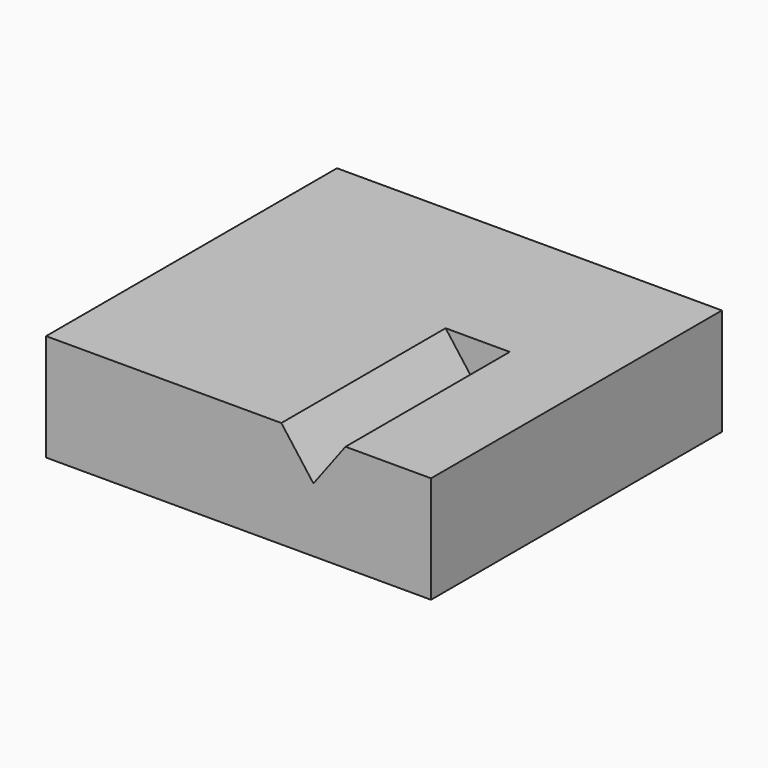
from build123d import *

# Parameters (mm, degrees)
F0_W     = 57.15
F0_H     = 53.975
F1_DEPTH = 15.875
F3_DEPTH = 30.48


with BuildPart() as f1:
    # F0 (on Top) → F1 (new body)
    with BuildSketch(Plane.XY):
        Rectangle(F0_W, F0_H)
    extrude(amount=F1_DEPTH)

    # F2 (on face) → F3 (cut)
    with BuildSketch(Plane.XZ.offset(26.9875)):
        Polygon((15.875, 15.875), (6.35, 15.875), (11.1125, 9.525), align=None)
    extrude(amount=-F3_DEPTH, mode=Mode.SUBTRACT)


solid = f1.part
